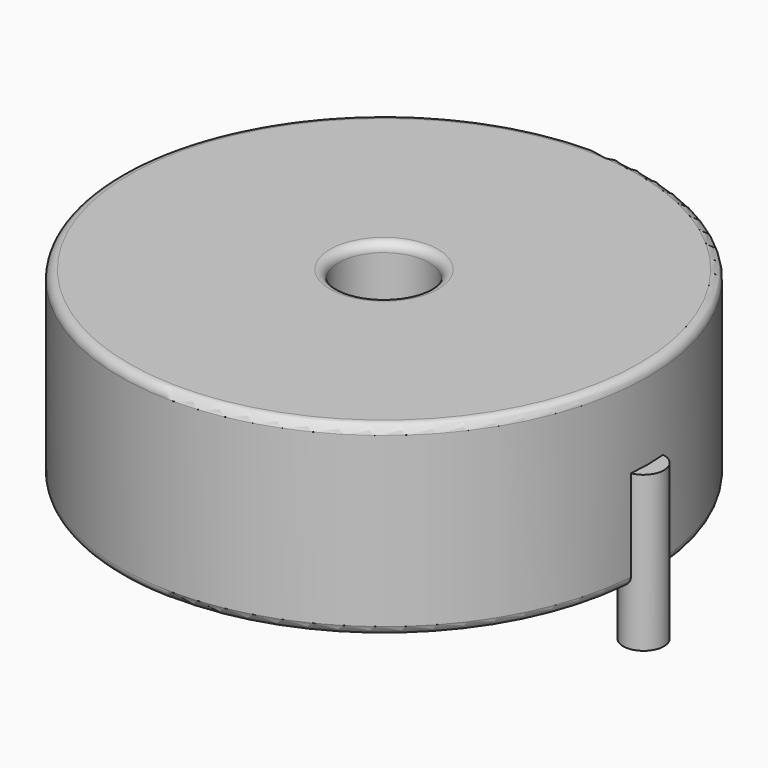
from build123d import *

# Parameters (mm, degrees)
SKETCH001_R       = 1.15
PAD001_DEPTH      = 5.25
PAD001_DEPTH_BACK = 3.5
SKETCH_R          = 14.9
SKETCH_R_2        = 2.55
PAD_DEPTH         = 10.5
FILLET_R          = 0.5


with BuildPart() as pad001:
    # Sketch001 → Pad001 (new body, two sides)
    with BuildSketch(Plane.XY.offset(0.5)) as pad001_sk:
        Circle(SKETCH001_R)
        with Locations((29.3, 0)):
            Circle(SKETCH001_R)
    extrude(amount=PAD001_DEPTH)
    extrude(pad001_sk.sketch, amount=-PAD001_DEPTH_BACK)


with BuildPart() as fillet_body:
    # Sketch → Pad (new body)
    with BuildSketch(Plane.XY.offset(0.1)):
        with Locations((14.65, 0)):
            Circle(SKETCH_R)
        with Locations((14.65, 0)):
            Circle(SKETCH_R_2, mode=Mode.SUBTRACT)
    extrude(amount=PAD_DEPTH)

    # Fillet
    fillet_edges = [fillet_body.edges().sort_by_distance(p)[0] for p in [
        (12.1, 0, 10.6),
        (-0.25, 0, 10.6),
        (-0.25, 0, 0.1),
    ]]
    fillet(fillet_edges, radius=FILLET_R)


solid = Compound([pad001.part, fillet_body.part])
